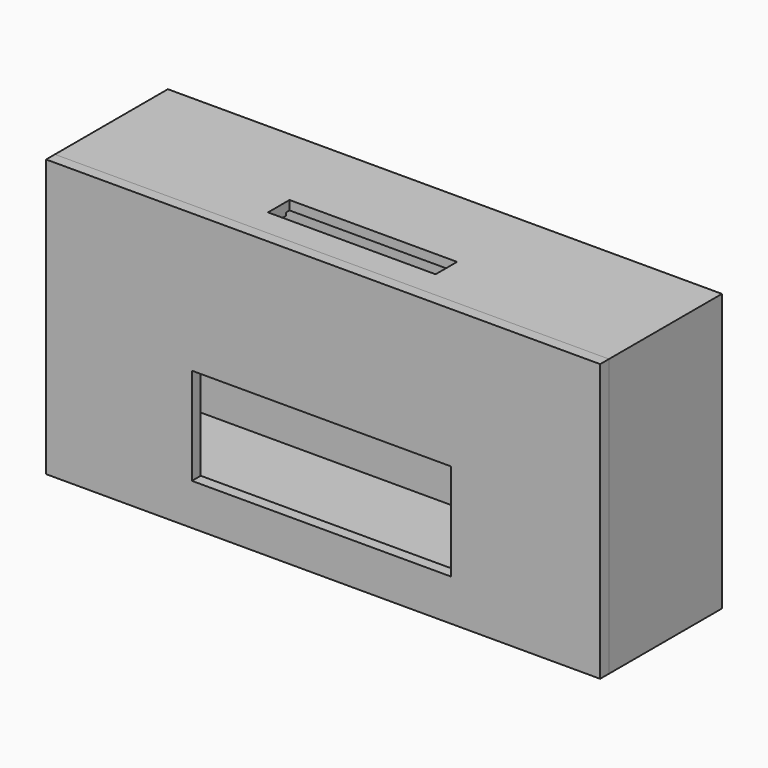
from build123d import *

# Parameters (mm, degrees)
F0_W      = 150.701448
F0_H      = 75.350724
F1_DEPTH  = 38.4
F2_T      = -2.5
F3_W      = 150.701448
F3_H      = 75.350724
F4_DEPTH  = 3
F5_W      = 70.515227
F5_H      = 26.381703
F6_DEPTH  = 12
F7_W      = 50.705938
F7_H      = 7.081837
F8_DEPTH  = 3.3
F9_W      = 45.575881
F9_H      = 7.308297
F10_DEPTH = 30.7


with BuildPart() as f1:
    # F0 (on Front) → F1 (new body)
    with BuildSketch(Plane.XZ):
        Rectangle(F0_W, F0_H)
    extrude(amount=F1_DEPTH)

    # F2
    f2_openings = [f1.faces().sort_by_distance(p)[0] for p in [
        (0, -38.4, 0),
    ]]
    offset(amount=F2_T, openings=f2_openings)

    # F7 (on face) → F8 (join)
    with BuildSketch(Plane.XY.offset(37.675362)):
        with Locations((-0.283274, -28.468977)):
            Rectangle(F7_W, F7_H)
    extrude(amount=-F8_DEPTH)

    # F9 (on face) → F10 (cut)
    with BuildSketch(Plane.XY.offset(37.675362)):
        with Locations((-0.549773, -27.306931)):
            Rectangle(F9_W, F9_H)
    extrude(amount=-F10_DEPTH, mode=Mode.SUBTRACT)


with BuildPart() as f4:
    # F3 (on face) → F4 (new body)
    with BuildSketch(Plane.XZ.offset(38.4)):
        Rectangle(F3_W, F3_H)
    extrude(amount=F4_DEPTH)

    # F5 (on face) → F6 (cut)
    with BuildSketch(Plane.XZ.offset(41.4)):
        with Locations((-0.430302, -13.190851)):
            Rectangle(F5_W, F5_H)
    extrude(amount=-F6_DEPTH, mode=Mode.SUBTRACT)


solid = Compound([f1.part, f4.part])
